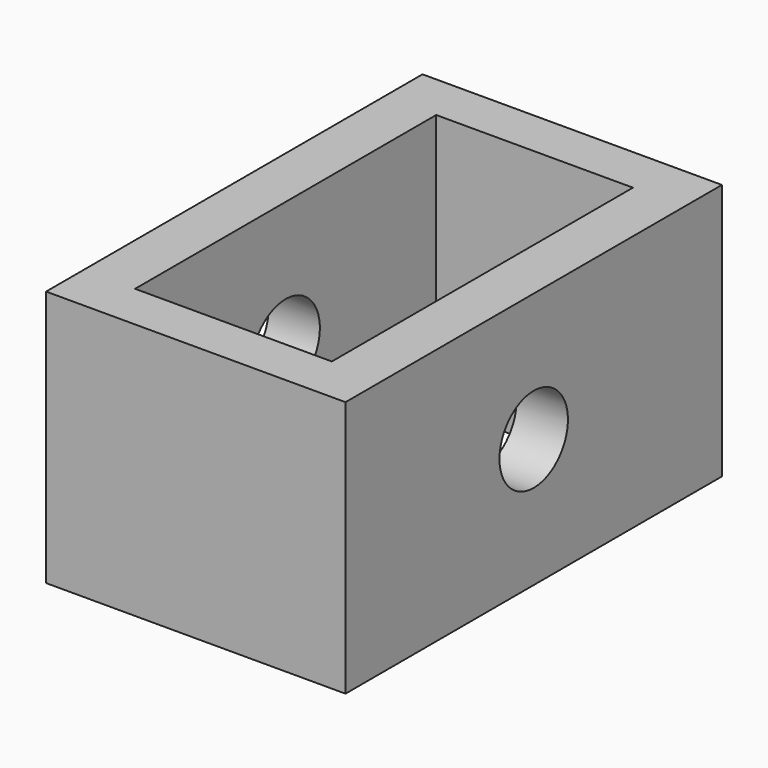
from build123d import *

# Parameters (mm, degrees)
F0_W     = 35
F0_H     = 55
F1_DEPTH = 30
F3_W     = 23
F3_H     = 44
F4_DEPTH = 40
F6_D     = 10


with BuildPart() as f1:
    # F0 (on Top) → F1 (new body)
    with BuildSketch(Plane.XY):
        Rectangle(F0_W, F0_H)
    extrude(amount=F1_DEPTH)

    # F3 (on face) → F4 (cut)
    with BuildSketch(Plane.XY.offset(30)):
        Rectangle(F3_W, F3_H)
    extrude(amount=-F4_DEPTH, mode=Mode.SUBTRACT)

    # F6 (through all)
    with Locations(Plane.YZ.offset(17.5)):
        with Locations((0, 15)):
            Hole(F6_D / 2)


solid = f1.part
